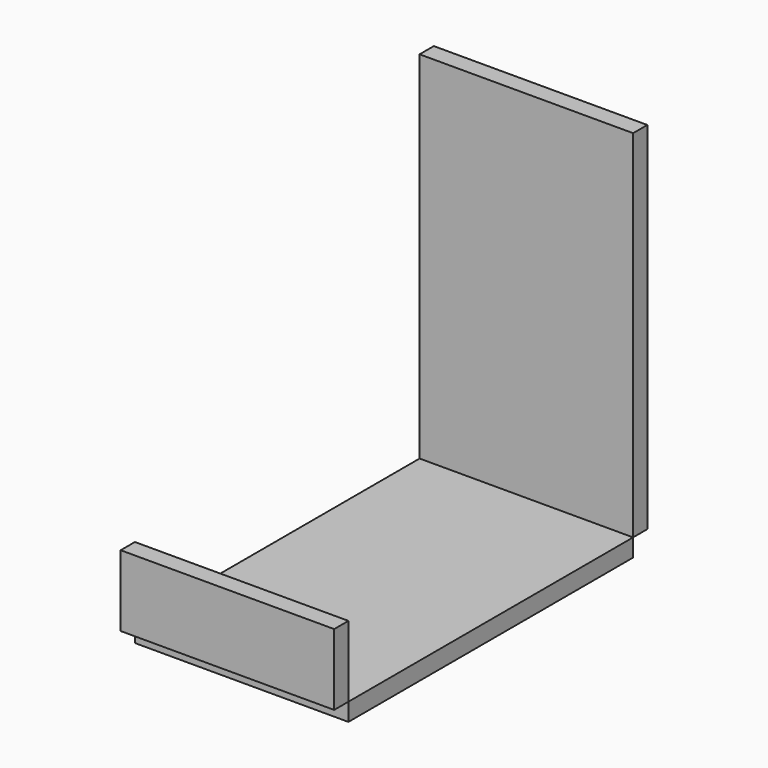
from build123d import *

# Parameters (mm, degrees)
F0_W     = 38.1
F0_H     = 63.5
F1_DEPTH = 3.175
F2_W     = 38.1
F2_H     = 3.175
F3_DEPTH = 63.5
F4_W     = 38.1
F4_H     = 3.175
F5_DEPTH = 12.7


with BuildPart() as f1:
    # F0 (on Top) → F1 (new body)
    with BuildSketch(Plane.XY):
        with Locations((-28.516022, 21.309891)):
            Rectangle(F0_W, F0_H)
    extrude(amount=F1_DEPTH)


with BuildPart() as f3:
    # F2 (on face) → F3 (new body)
    with BuildSketch(Plane.XY.offset(3.175)):
        with Locations((-28.516022, 54.647391)):
            Rectangle(F2_W, F2_H)
    extrude(amount=F3_DEPTH)


with BuildPart() as f5:
    # F4 (on face) → F5 (new body)
    with BuildSketch(Plane.XY.offset(3.175)):
        with Locations((-28.516022, -12.027609)):
            Rectangle(F4_W, F4_H)
    extrude(amount=F5_DEPTH)


solid = Compound([f1.part, f3.part, f5.part])
